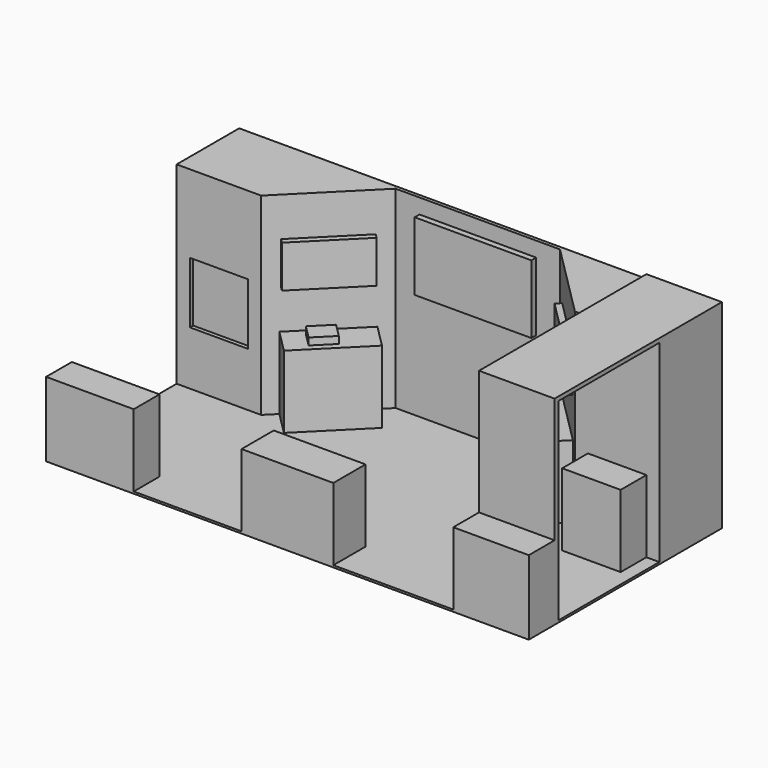
from build123d import *

# Parameters (mm, degrees)
F2_DEPTH  = 2438.4
F1_W      = 953.9242294849
F1_H      = 63.2018825702
F1_W_2    = 1158.9735746384
F1_H_2    = 508
F3_DEPTH  = 914.4
F1_W_3    = 738.2956321716
F1_H_3    = 406.4
F0_W      = 6096
F0_H      = 3048
F4_DEPTH  = 25.4
F5_W      = 953.9242294849
F5_H      = 1654.6562362949
F5_H_2    = 986.9437637051
F6_DEPTH  = 50.8
F7_W      = 1473.2
F7_H      = 863.6
F8_DEPTH  = 76.2
F9_W      = 939.8
F9_H      = 533.4
F11_DEPTH = 76.2
F10_W     = 939.8
F10_H     = 533.4
F12_DEPTH = 76.2
F13_W     = 730.4839317322
F13_H     = 773.9401051014
F14_DEPTH = 50.8
F16_START = -254
F15_W     = 241.3
F15_H     = 88.9
F16_DEPTH = 299.72
F17_W     = 1106.8047355545
F17_H     = 406.4
F18_DEPTH = 914.4


with BuildPart() as f2:
    # F1 (on face) → F2 (new body)
    with BuildSketch(Plane.XY):
        Polygon((3048, 537.0562362949), (3048, 1524), (-3048, 1524), (-3048, 537.0562362949), (-1981.2, 537.0562362949), (-1853.3416025037, 664.9146337911), (-1165.2743124712, 1352.9819238236), (-1037.415914975, 1480.8403213199), (1037.415914975, 1480.8403213199), (1165.2743124712, 1352.9819238236), (1853.3416025037, 664.9146337911), (1981.2, 537.0562362949), (2145.4521839142, 537.0562362949), (2883.7478160858, 537.0562362949), align=None)
    extrude(amount=F2_DEPTH)

    # F1 (on face) → F3, piece 2 (join)
    with BuildSketch(Plane.XY):
        Polygon((-1165.2743124712, 1352.9819238236), (-1853.3416025037, 664.9146337911), (-1565.9734066295, 377.5464379169), (-877.906116597, 1065.6137279494), align=None)
        Polygon((1565.9734066295, 377.5464379169), (1853.3416025037, 664.9146337911), (1165.2743124712, 1352.9819238236), (877.906116597, 1065.6137279494), align=None)
        with Locations((2514.6, 333.8562362949)):
            Rectangle(F1_W_3, F1_H_3)
    extrude(amount=F3_DEPTH)



with BuildPart() as f2b:
    # F1 (on face) → F2, piece 2 (new body)
    with BuildSketch(Plane.XY):
        with Locations((2571.0378852575, -1085.9990587149)):
            Rectangle(F1_W, F1_H)
    extrude(amount=F2_DEPTH)

    # F1 (on face) → F3, piece 3 (join)
    with BuildSketch(Plane.XY):
        with Locations((2571.0378852575, -1320.8)):
            Rectangle(F1_W, F1_H_3)
    extrude(amount=F3_DEPTH)


with BuildPart() as f3:
    # F1 (on face) → F3 (new body)
    with BuildSketch(Plane.XY):
        with Locations((0, -1270)):
            Rectangle(F1_W_2, F1_H_2)
    extrude(amount=F3_DEPTH)


with BuildPart() as f2_1:
    add(f2.part)

    add(f2b.part)  # F4 merges F2b

    add(f3.part)  # F4 merges F3
    # F0 (on Top) → F4 (join)
    with BuildSketch(Plane.XY):
        Rectangle(F0_W, F0_H)
    extrude(amount=-F4_DEPTH)

    # F5 (on face) → F6 (join)
    with BuildSketch(Plane.XY.offset(2438.4)):
        with Locations((2571.0378852575, -290.2718818526)):
            Rectangle(F5_W, F5_H)
        with Locations((2571.0378852575, 1030.5281181474)):
            Rectangle(F5_W, F5_H_2)
    extrude(amount=F6_DEPTH)

    # F7 (on face) → F8 (join)
    with BuildSketch(Plane.XZ.offset(-1480.8403213199)):
        with Locations((0, 1817.8412914276)):
            Rectangle(F7_W, F7_H)
    extrude(amount=F8_DEPTH)

    # F9 (on face) → F11 (join)
    with BuildSketch(Plane(origin=(-1259.1281181474, 1259.1281181474, 0), x_dir=(0.7071067812, 0.7071067812, 0), z_dir=(0.7071067812, -0.7071067812, 0))):
        with Locations((-353.807721827, 1676.4)):
            Rectangle(F9_W, F9_H)
    extrude(amount=F11_DEPTH)

    # F10 (on face) → F12 (join)
    with BuildSketch(Plane(origin=(1259.1281181474, 1259.1281181474, 0), x_dir=(0.7071067812, -0.7071067812, 0), z_dir=(-0.7071067812, -0.7071067812, 0))):
        with Locations((353.807721827, 1676.4)):
            Rectangle(F10_W, F10_H)
    extrude(amount=F12_DEPTH)

    # F13 (on face) → F14 (cut)
    with BuildSketch(Plane.XZ.offset(-537.0562362949)):
        with Locations((-2514.6, 1067.5287936434)):
            Rectangle(F13_W, F13_H)
    extrude(amount=-F14_DEPTH, mode=Mode.SUBTRACT)

    # F15 (on face) → F16 (join)
    with BuildSketch(Plane(origin=(-594.2134843563, -594.2134843563, 0), x_dir=(0.7071067812, -0.7071067812, 0), z_dir=(-0.7071067812, -0.7071067812, 0)).offset(F16_START)):
        with Locations((-1577.4760614494, 958.85)):
            Rectangle(F15_W, F15_H)
    extrude(amount=-F16_DEPTH)

    # F17 (on face) → F18 (join)
    with BuildSketch(Plane.XY):
        with Locations((-2494.5976322227, -1320.8)):
            Rectangle(F17_W, F17_H)
    extrude(amount=F18_DEPTH)


solid = f2_1.part
